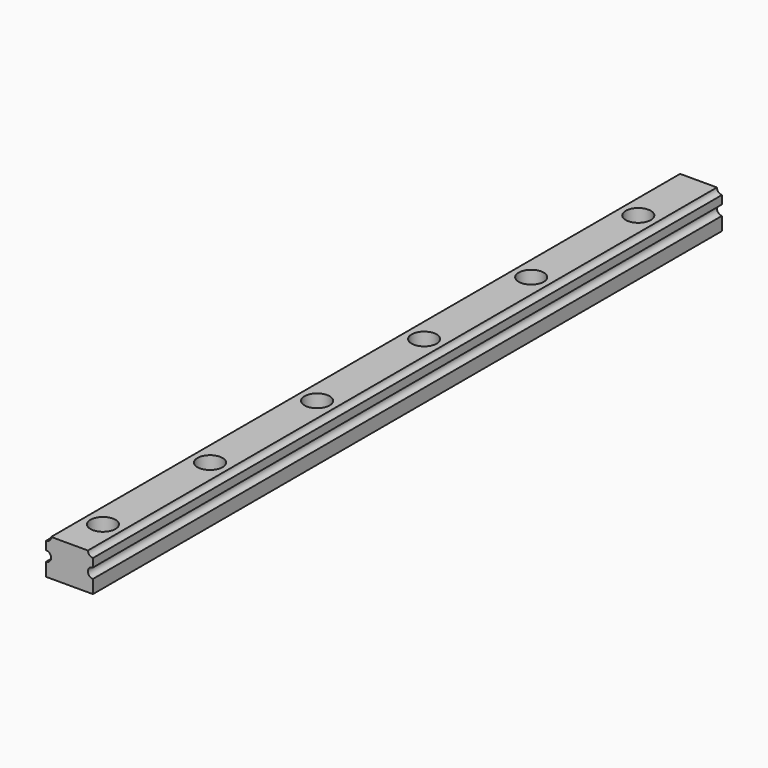
from build123d import *

# Parameters (mm, degrees)
F1_DEPTH = 470
F2_R     = 4
F3_DEPTH = 25
F4_R     = 7.5
F5_DEPTH = 11


with BuildPart() as f1:
    # F0 (on Front) → F1 (new body)
    with BuildSketch(Plane.XZ):
        with BuildLine():
            Line((0, 8), (0, 0))
            Line((0, 0), (28, 0))
            Line((28, 0), (28, 8))
            ThreePointArc((28, 8), (25, 11), (28, 14))
            Line((28, 14), (28, 19))
            ThreePointArc((28, 19), (25.87868, 19.87868), (25, 22))
            Line((25, 22), (3, 22))
            ThreePointArc((3, 22), (2.12132, 19.87868), (0, 19))
            Line((0, 19), (0, 14))
            ThreePointArc((0, 14), (3, 11), (0, 8))
        make_face()
    extrude(amount=F1_DEPTH)

    # F2 (on face) → F3 (cut)
    with BuildSketch(Plane.XY.offset(22)):
        with Locations((14, -45)):
            Circle(F2_R)
        with Locations((14, -125)):
            Circle(F2_R)
        with Locations((14, -205)):
            Circle(F2_R)
        with Locations((14, -285)):
            Circle(F2_R)
        with Locations((14, -365)):
            Circle(F2_R)
        with Locations((14, -445)):
            Circle(F2_R)
    extrude(amount=-F3_DEPTH, mode=Mode.SUBTRACT)

    # F4 (on face) → F5 (cut)
    with BuildSketch(Plane.XY.offset(22)):
        with Locations((14, -205)):
            Circle(F4_R)
        with Locations((14, -125)):
            Circle(F4_R)
        with Locations((14, -45)):
            Circle(F4_R)
        with Locations((14, -285)):
            Circle(F4_R)
        with Locations((14, -365)):
            Circle(F4_R)
        with Locations((14, -445)):
            Circle(F4_R)
    extrude(amount=-F5_DEPTH, mode=Mode.SUBTRACT)


solid = f1.part
